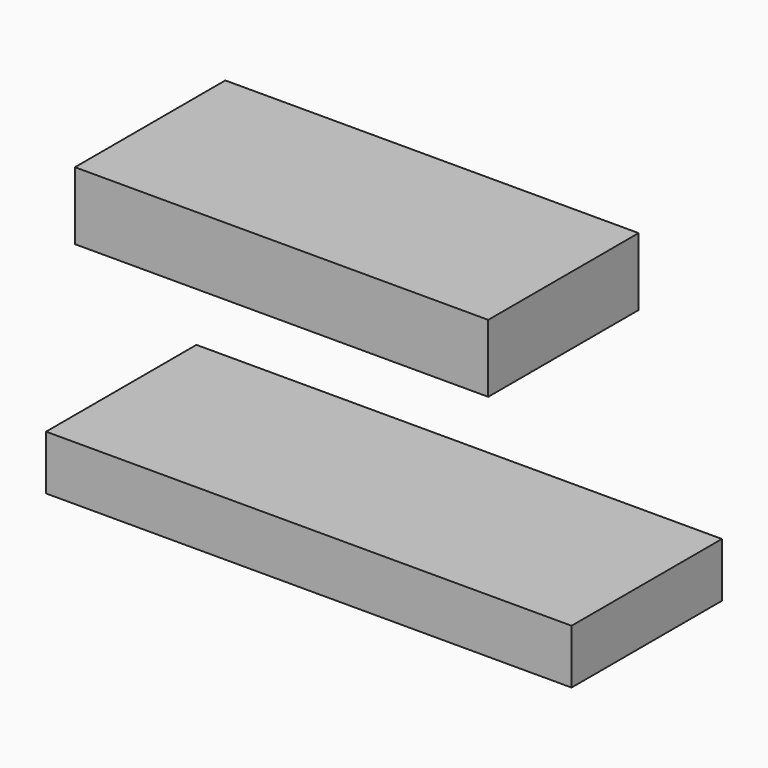
from build123d import *

# Parameters (mm, degrees)
F0_W      = 111.704126
F0_H      = 18.317076
F1_DEPTH  = 25.4
F1_FACE_W = 111.704126
F1_FACE_H = 18.317076
F2_DEPTH  = 25.4
F3_W      = 142.0324
F3_H      = 14.713718
F4_DEPTH  = 25.4
F4_FACE_W = 142.0324
F4_FACE_H = 14.713718
F5_DEPTH  = 25.4


with BuildPart() as f1:
    # F0 (on Front) → F1 (new body)
    with BuildSketch(Plane.XZ):
        with Locations((-3.130823, 26.745989)):
            Rectangle(F0_W, F0_H)
    extrude(amount=F1_DEPTH)

    # F1_face (on face) → F2 (join)
    with BuildSketch(Plane(origin=(-3.130823, -25.4, 26.745989), x_dir=(1, 0, 0), z_dir=(0, -1, 0))):
        Rectangle(F1_FACE_W, F1_FACE_H)
    extrude(amount=F2_DEPTH)


with BuildPart() as f4:
    # F3 (on Front) → F4 (new body)
    with BuildSketch(Plane.XZ):
        with Locations((4.226036, -36.913355)):
            Rectangle(F3_W, F3_H)
    extrude(amount=F4_DEPTH)

    # F4_face (on face) → F5 (join)
    with BuildSketch(Plane(origin=(4.226036, -25.4, -36.913355), x_dir=(1, 0, 0), z_dir=(0, -1, 0))):
        Rectangle(F4_FACE_W, F4_FACE_H)
    extrude(amount=F5_DEPTH)


solid = Compound([f1.part, f4.part])
